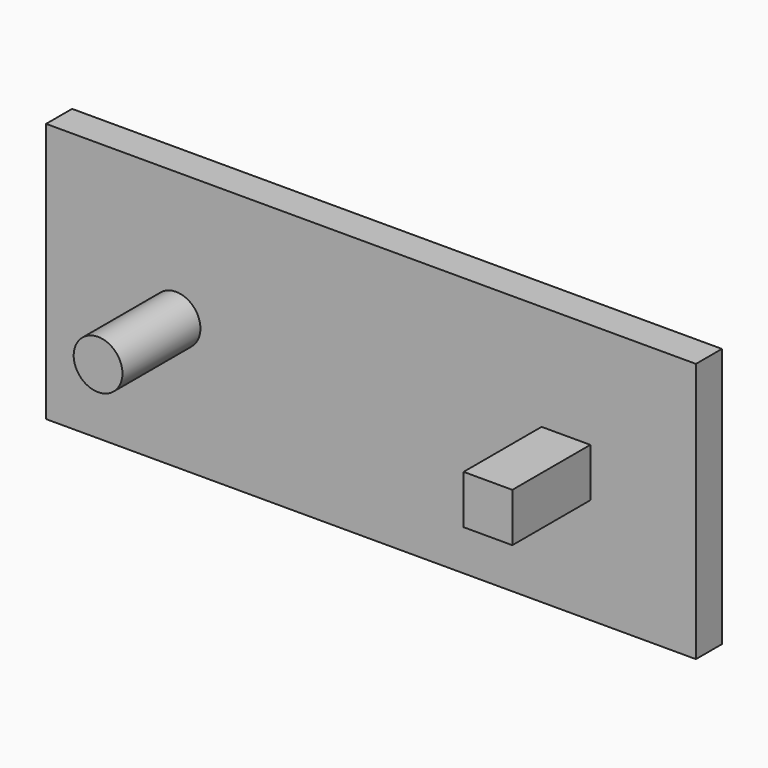
from build123d import *

# Parameters (mm, degrees)
F0_R     = 4.7625
F1_DEPTH = 25.4
F0_W     = 9.525
F0_H     = 9.525
F0_W_2   = 127
F0_H_2   = 50.8
F2_DEPTH = 6.35


with BuildPart() as f1:
    # F0 (on Front) → F1 (new body)
    with BuildSketch(Plane.XZ):
        with Locations((-21.5236963964, 0)):
            Circle(F0_R)
    extrude(amount=F1_DEPTH)



with BuildPart() as f1b:
    # F0 (on Front) → F1, piece 2 (new body)
    with BuildSketch(Plane.XZ):
        with Locations((54.6763036036, 0)):
            Rectangle(F0_W, F0_H)
    extrude(amount=F1_DEPTH)


with BuildPart() as f1_1:
    add(f1.part)

    add(f1b.part)  # F2 merges F1b
    # F0 (on Front) → F2 (join)
    with BuildSketch(Plane.XZ):
        with Locations((16.5763036036, 0)):
            Rectangle(F0_W_2, F0_H_2)
        with Locations((-21.5236963964, 0)):
            Circle(F0_R, mode=Mode.SUBTRACT)
        with Locations((54.6763036036, 0)):
            Rectangle(F0_W, F0_H, mode=Mode.SUBTRACT)
    extrude(amount=F2_DEPTH)


solid = f1_1.part
